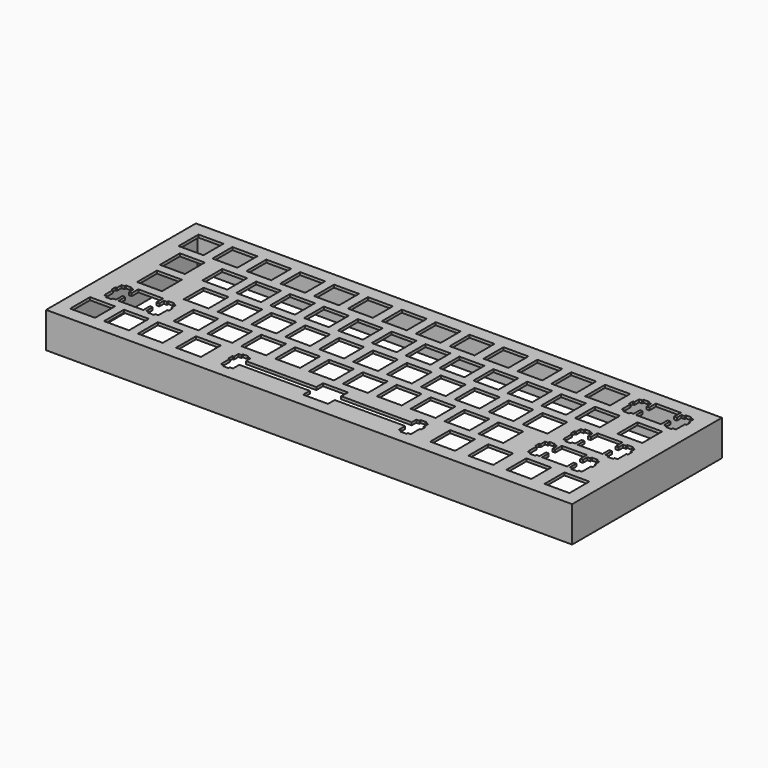
from build123d import *

# Parameters (mm, degrees)
F0_W     = 295.75029
F0_H     = 105.25029
F1_DEPTH = 20
F2_W     = 285.75029
F2_H     = 95.25029
F3_DEPTH = 18.46
F4_W     = 14.00089
F4_H     = 14.0007
F4_W_2   = 13.9994
F4_W_3   = 13.9993
F4_W_4   = 13.999
F4_W_5   = 14.001
F4_W_6   = 14
F4_H_2   = 13.9993
F4_W_7   = 14.0009
F4_W_8   = 13.9997
F4_W_9   = 14.0008
F4_W_10  = 14.0007
F4_H_3   = 13.9994
F4_W_11  = 14.0006
F4_H_4   = 13.99951
F5_DEPTH = 20.001


with BuildPart() as f1:
    # F0 (on Top) → F1 (new body)
    with BuildSketch(Plane.XY):
        with Locations((5.131038, 52.625145)):
            Rectangle(F0_W, F0_H)
    extrude(amount=F1_DEPTH)

    # F2 (on face) → F3 (cut)
    with BuildSketch(Plane(origin=(0, 0, 0), x_dir=(1, 0, 0), z_dir=(0, 0, -1))):
        with Locations((5.131038, -52.625145)):
            Rectangle(F2_W, F2_H)
    extrude(amount=-F3_DEPTH, mode=Mode.SUBTRACT)

    # F4 (on face) → F5 (cut, through all)
    with BuildSketch(Plane.XY.offset(20)):
        with Locations((-128.228836, 90.718213)):
            Rectangle(F4_W, F4_H)
        with Locations((-109.178191, 90.718213)):
            Rectangle(F4_W_2, F4_H)
        with Locations((-90.128141, 90.718213)):
            Rectangle(F4_W_3, F4_H)
        with Locations((-71.078141, 90.718213)):
            Rectangle(F4_W_3, F4_H)
        with Locations((-52.028141, 90.718213)):
            Rectangle(F4_W_3, F4_H)
        with Locations((-32.979591, 90.718213)):
            Rectangle(F4_W_4, F4_H)
        with Locations((-13.928591, 90.718213)):
            Rectangle(F4_W_5, F4_H)
        with Locations((5.121909, 90.718213)):
            Rectangle(F4_W_6, F4_H)
        with Locations((24.171909, 90.718213)):
            Rectangle(F4_W_6, F4_H)
        with Locations((43.221909, 90.718213)):
            Rectangle(F4_W_6, F4_H)
        with Locations((62.271909, 90.718213)):
            Rectangle(F4_W_6, F4_H)
        with Locations((81.321909, 90.718213)):
            Rectangle(F4_W_6, F4_H)
        with Locations((100.371909, 90.718213)):
            Rectangle(F4_W_6, F4_H)
        Polygon((135.946909, 97.718563), (121.946909, 97.718563), (121.946909, 93.018163), (120.421909, 93.018163), (120.421909, 96.248163), (118.695909, 96.248163), (118.695909, 97.167463), (115.396909, 97.167463), (115.396909, 96.248163), (113.671909, 96.248163), (113.671909, 93.018163), (112.846909, 93.018163), (112.846909, 90.217763), (113.671909, 90.217763), (113.671909, 83.949263), (115.396909, 83.949263), (115.396909, 82.968163), (118.695909, 82.968163), (118.695909, 83.949263), (120.421909, 83.949263), (120.421909, 88.418263), (121.946909, 88.418263), (121.946909, 83.717863), (135.946909, 83.717863), (135.946909, 88.418263), (137.471909, 88.418263), (137.471909, 83.949263), (139.195909, 83.949263), (139.195909, 82.968163), (142.496909, 82.968163), (142.496909, 83.949263), (144.221909, 83.949263), (144.221909, 90.217763), (145.046909, 90.217763), (145.046909, 93.018163), (144.221909, 93.018163), (144.221909, 96.248163), (142.496909, 96.248163), (142.496909, 97.167463), (139.195909, 97.167463), (139.195909, 96.248163), (137.471909, 96.248163), (137.471909, 93.018163), (135.946909, 93.018163), align=None)
        with Locations((133.708409, 71.667513)):
            Rectangle(F4_W_5, F4_H_2)
        with Locations((109.896909, 71.667513)):
            Rectangle(F4_W_6, F4_H_2)
        with Locations((-123.466341, 71.667513)):
            Rectangle(F4_W_7, F4_H_2)
        with Locations((-99.653141, 71.667513)):
            Rectangle(F4_W_3, F4_H_2)
        with Locations((-80.603141, 71.667513)):
            Rectangle(F4_W_3, F4_H_2)
        with Locations((-61.553141, 71.667513)):
            Rectangle(F4_W_3, F4_H_2)
        with Locations((-42.502941, 71.667513)):
            Rectangle(F4_W_8, F4_H_2)
        with Locations((-23.453091, 71.667513)):
            Rectangle(F4_W_6, F4_H_2)
        with Locations((-4.403091, 71.667513)):
            Rectangle(F4_W_6, F4_H_2)
        with Locations((14.646909, 71.667513)):
            Rectangle(F4_W_6, F4_H_2)
        with Locations((33.696909, 71.667513)):
            Rectangle(F4_W_6, F4_H_2)
        with Locations((52.746909, 71.667513)):
            Rectangle(F4_W_6, F4_H_2)
        with Locations((71.796909, 71.667513)):
            Rectangle(F4_W_6, F4_H_2)
        with Locations((90.846909, 71.667513)):
            Rectangle(F4_W_6, F4_H_2)
        Polygon((133.564909, 59.617163), (119.564909, 59.617163), (119.564909, 54.918163), (118.039909, 54.918163), (118.039909, 58.148163), (116.314909, 58.148163), (116.314909, 59.067463), (113.012909, 59.067463), (113.012909, 58.148163), (111.289909, 58.148163), (111.289909, 54.918163), (110.464909, 54.918163), (110.464909, 52.117763), (111.289909, 52.117763), (111.289909, 45.849263), (113.012909, 45.849263), (113.012909, 44.868163), (116.314909, 44.868163), (116.314909, 45.849263), (118.039909, 45.849263), (118.039909, 50.318263), (119.564909, 50.318263), (119.564909, 45.617863), (133.564909, 45.617863), (133.564909, 50.318263), (135.089909, 50.318263), (135.089909, 45.849263), (136.814909, 45.849263), (136.814909, 44.868163), (140.114909, 44.868163), (140.114909, 45.849263), (141.838909, 45.849263), (141.838909, 52.117763), (142.664909, 52.117763), (142.664909, 54.918163), (141.838909, 54.918163), (141.838909, 58.148163), (140.114909, 58.148163), (140.114909, 59.067463), (136.814909, 59.067463), (136.814909, 58.148163), (135.089909, 58.148163), (135.089909, 54.918163), (133.564909, 54.918163), align=None)
        with Locations((76.558409, 52.617513)):
            Rectangle(F4_W_5, F4_H_2)
        with Locations((57.508409, 52.617513)):
            Rectangle(F4_W_5, F4_H_2)
        with Locations((38.458409, 52.617513)):
            Rectangle(F4_W_5, F4_H_2)
        with Locations((19.408409, 52.617513)):
            Rectangle(F4_W_5, F4_H_2)
        with Locations((0.358409, 52.617513)):
            Rectangle(F4_W_5, F4_H_2)
        with Locations((-18.691591, 52.617513)):
            Rectangle(F4_W_5, F4_H_2)
        with Locations((95.608409, 52.617513)):
            Rectangle(F4_W_5, F4_H_2)
        with Locations((-121.085091, 52.617513)):
            Rectangle(F4_W_9, F4_H_2)
        Polygon((-109.322191, 40.567163), (-123.321691, 40.567163), (-123.321691, 35.868163), (-124.847191, 35.868163), (-124.847191, 39.098163), (-126.572491, 39.098163), (-126.572491, 40.017463), (-129.872891, 40.017463), (-129.872891, 39.098163), (-131.598191, 39.098163), (-131.598191, 35.868163), (-132.422191, 35.868163), (-132.422191, 33.067963), (-131.598191, 33.067963), (-131.598191, 26.797863), (-129.872891, 26.797863), (-129.872891, 25.818063), (-126.572491, 25.818063), (-126.572491, 26.797863), (-124.847191, 26.797863), (-124.847191, 31.268263), (-123.321691, 31.268263), (-123.321691, 26.567763), (-109.322191, 26.567763), (-109.322191, 31.268263), (-107.796691, 31.268263), (-107.796691, 26.797863), (-106.072791, 26.797863), (-106.072791, 25.818063), (-102.772291, 25.818063), (-102.772291, 26.797863), (-101.047191, 26.797863), (-101.047191, 33.067963), (-100.223091, 33.067963), (-100.223091, 35.868163), (-101.047191, 35.868163), (-101.047191, 39.098163), (-102.772291, 39.098163), (-102.772291, 40.017463), (-106.072791, 40.017463), (-106.072791, 39.098163), (-107.796691, 39.098163), (-107.796691, 35.868163), (-109.322191, 35.868163), align=None)
        with Locations((-85.366341, 33.567463)):
            Rectangle(F4_W_10, F4_H_3)
        with Locations((-66.316341, 33.567463)):
            Rectangle(F4_W_10, F4_H_3)
        with Locations((-94.891341, 52.617513)):
            Rectangle(F4_W_10, F4_H_2)
        with Locations((-75.841341, 52.617513)):
            Rectangle(F4_W_10, F4_H_2)
        with Locations((-56.791341, 52.617513)):
            Rectangle(F4_W_10, F4_H_2)
        with Locations((-37.741391, 52.617513)):
            Rectangle(F4_W_11, F4_H_2)
        with Locations((-47.266391, 33.567463)):
            Rectangle(F4_W_11, F4_H_3)
        with Locations((-28.216591, 33.567463)):
            Rectangle(F4_W_5, F4_H_3)
        with Locations((-9.166591, 33.567463)):
            Rectangle(F4_W_5, F4_H_3)
        with Locations((9.883409, 33.567463)):
            Rectangle(F4_W_5, F4_H_3)
        with Locations((28.933409, 33.567463)):
            Rectangle(F4_W_5, F4_H_3)
        with Locations((47.983409, 33.567463)):
            Rectangle(F4_W_5, F4_H_3)
        with Locations((67.033409, 33.567463)):
            Rectangle(F4_W_5, F4_H_3)
        with Locations((86.083409, 33.567463)):
            Rectangle(F4_W_5, F4_H_3)
        Polygon((128.802909, 40.567163), (114.803909, 40.567163), (114.803909, 35.868163), (113.277909, 35.868163), (113.277909, 39.098163), (111.550909, 39.098163), (111.550909, 40.017463), (108.251909, 40.017463), (108.251909, 39.098163), (106.527909, 39.098163), (106.527909, 35.868163), (105.702909, 35.868163), (105.702909, 33.067963), (106.527909, 33.067963), (106.527909, 26.797863), (108.251909, 26.797863), (108.251909, 25.818063), (111.550909, 25.818063), (111.550909, 26.797863), (113.277909, 26.797863), (113.277909, 31.268263), (114.803909, 31.268263), (114.803909, 26.567763), (128.802909, 26.567763), (128.802909, 31.268263), (130.327909, 31.268263), (130.327909, 26.797863), (132.051909, 26.797863), (132.051909, 25.818063), (135.352909, 25.818063), (135.352909, 26.797863), (137.077909, 26.797863), (137.077909, 33.067963), (137.901909, 33.067963), (137.901909, 35.868163), (137.077909, 35.868163), (137.077909, 39.098163), (135.352909, 39.098163), (135.352909, 40.017463), (132.051909, 40.017463), (132.051909, 39.098163), (130.327909, 39.098163), (130.327909, 35.868163), (128.802909, 35.868163), align=None)
        with Locations((117.039909, 14.517508)):
            Rectangle(F4_W_6, F4_H_4)
        with Locations((95.608409, 14.517508)):
            Rectangle(F4_W_5, F4_H_4)
        with Locations((74.178409, 14.517508)):
            Rectangle(F4_W_4, F4_H_4)
        with Locations((138.470409, 14.517508)):
            Rectangle(F4_W_4, F4_H_4)
        Polygon((9.739909, 21.517263), (-4.260091, 21.517263), (-4.260091, 16.818063), (-43.884791, 16.818063), (-43.884791, 20.048263), (-45.609891, 20.048263), (-45.609891, 20.968763), (-48.910491, 20.968763), (-48.910491, 20.048263), (-50.635591, 20.048263), (-50.635591, 16.818063), (-51.459691, 16.818063), (-51.459691, 14.017963), (-50.635591, 14.017963), (-50.635591, 7.749243), (-48.910491, 7.749243), (-48.910491, 6.768103), (-45.609891, 6.768103), (-45.609891, 7.749243), (-43.884791, 7.749243), (-43.884791, 12.218263), (-4.260091, 12.218263), (-4.260091, 7.517753), (9.739909, 7.517753), (9.739909, 12.218263), (49.364909, 12.218263), (49.364909, 7.749243), (51.089909, 7.749243), (51.089909, 6.768103), (54.389909, 6.768103), (54.389909, 7.749243), (56.113909, 7.749243), (56.113909, 14.017963), (56.939909, 14.017963), (56.939909, 16.818063), (56.113909, 16.818063), (56.113909, 20.048263), (54.389909, 20.048263), (54.389909, 20.968763), (51.089909, 20.968763), (51.089909, 20.048263), (49.364909, 20.048263), (49.364909, 16.818063), (9.739909, 16.818063), align=None)
        with Locations((-128.228836, 14.517508)):
            Rectangle(F4_W, F4_H_4)
        with Locations((-109.178191, 14.517508)):
            Rectangle(F4_W_2, F4_H_4)
        with Locations((-90.128141, 14.517508)):
            Rectangle(F4_W_3, F4_H_4)
        with Locations((-68.696941, 14.517508)):
            Rectangle(F4_W_3, F4_H_4)
    extrude(amount=-F5_DEPTH, mode=Mode.SUBTRACT)


with BuildPart() as f1_1:
    # F6: moved
    add(f1.part.moved(Location((0, -52.5, 0))))


solid = f1_1.part
